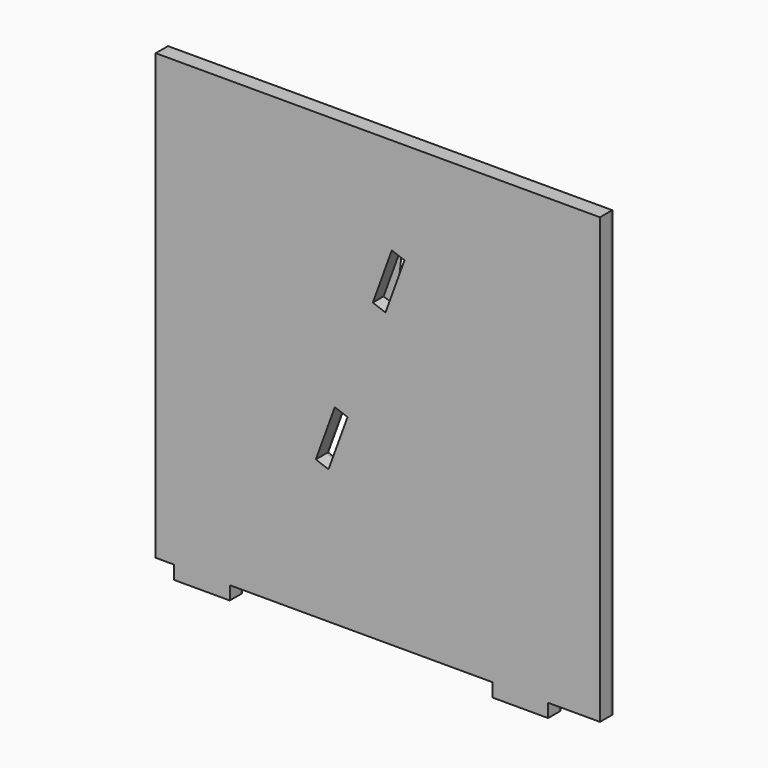
from build123d import *

# Parameters (mm, degrees)
F1_DEPTH = 2.54
F2_DEPTH = 18.542


with BuildPart() as f1:
    # F0 (on Front) → F1 (new body)
    with BuildSketch(Plane.XZ):
        Polygon((389.917573, 301.722692), (-219.682427, 301.722692), (-219.682427, -307.877308), (-194.282427, -307.877308), (-194.282427, -326.419308), (-118.082427, -326.419308), (-118.082427, -307.877308), (242.546773, -307.877308), (242.546773, -326.419308), (318.746773, -326.419308), (318.746773, -307.877308), (359.933555, -307.877308), (389.917573, -307.877308), align=None)
        Polygon((0, -117.554925), (26.061935, -45.950348), (43.485715, -52.292085), (17.423781, -123.896663), align=None, mode=Mode.SUBTRACT)
        Polygon((95.609585, 90.91707), (78.185805, 97.258808), (104.24774, 168.863385), (121.67152, 162.521648), align=None, mode=Mode.SUBTRACT)
    extrude(amount=F1_DEPTH)

    # F1_face (on face) → F2 (join)
    with BuildSketch(Plane(origin=(85.128191, -2.54, -5.659924), x_dir=(1, 0, 0), z_dir=(0, -1, 0))):
        Polygon((304.789381, 307.382616), (-304.810619, 307.382616), (-304.810619, -302.217384), (-279.410619, -302.217384), (-279.410619, -320.759384), (-203.210619, -320.759384), (-203.210619, -302.217384), (157.418581, -302.217384), (157.418581, -320.759384), (233.618581, -320.759384), (233.618581, -302.217384), (304.789381, -302.217384), align=None)
        Polygon((-67.704411, -118.236739), (-85.128191, -111.895002), (-59.066256, -40.290424), (-41.642476, -46.632162), align=None, mode=Mode.SUBTRACT)
        Polygon((36.543329, 168.181571), (10.481394, 96.576994), (-6.942387, 102.918731), (19.119548, 174.523309), align=None, mode=Mode.SUBTRACT)
    extrude(amount=F2_DEPTH)


solid = f1.part
